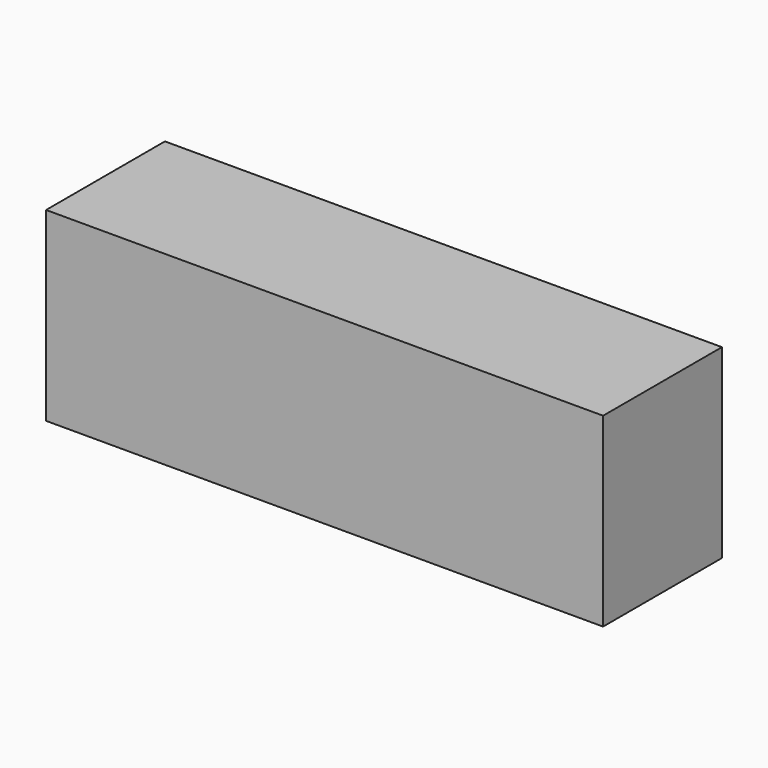
from build123d import *

# Parameters (mm, degrees)
SKETCH_W      = 150
SKETCH_H      = 40
EXTRUDE_DEPTH = 50


with BuildPart() as part:
    # Sketch → Extrude (new body)
    with BuildSketch(Plane.XY):
        Rectangle(SKETCH_W, SKETCH_H)
    extrude(amount=EXTRUDE_DEPTH)


solid = part.part
